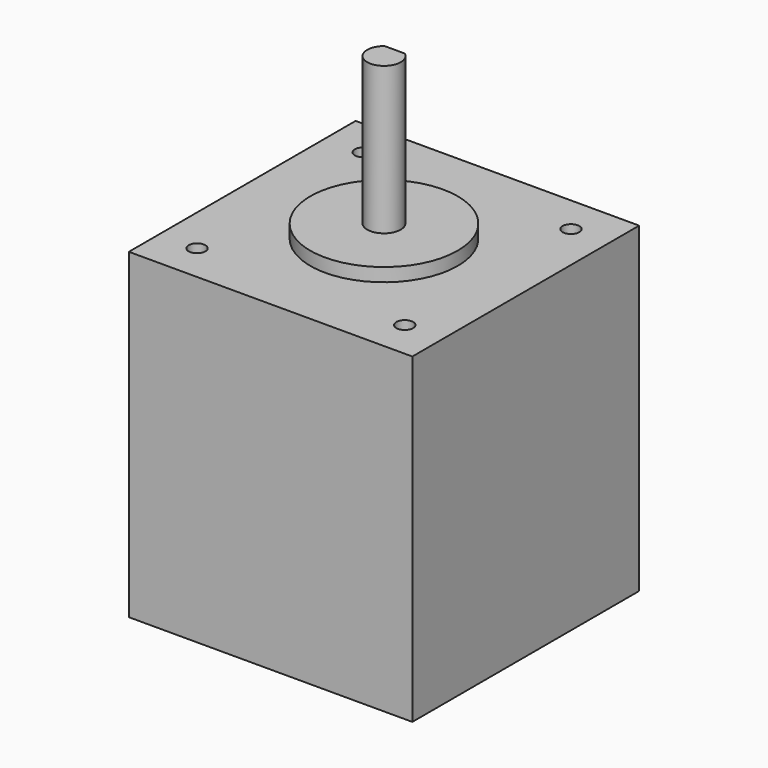
from build123d import *

# Parameters (mm, degrees)
SKETCH_W     = 42.3
SKETCH_H     = 42.3
SKETCH_R     = 1.25
PAD_DEPTH    = 48
SKETCH001_R  = 11
PAD001_DEPTH = 2
SKETCH002_R  = 2.5
PAD002_DEPTH = 22
POCKET_DEPTH = 12


with BuildPart() as part:
    # Sketch → Pad (new body)
    with BuildSketch(Plane.XY):
        with Locations((21.15, 21.15)):
            Rectangle(SKETCH_W, SKETCH_H)
        with Locations((5.65, 5.65)):
            Circle(SKETCH_R, mode=Mode.SUBTRACT)
        with Locations((5.65, 36.65)):
            Circle(SKETCH_R, mode=Mode.SUBTRACT)
        with Locations((36.65, 36.65)):
            Circle(SKETCH_R, mode=Mode.SUBTRACT)
        with Locations((36.65, 5.65)):
            Circle(SKETCH_R, mode=Mode.SUBTRACT)
    extrude(amount=PAD_DEPTH)

    # Sketch001 → Pad001 (new body)
    with BuildSketch(Plane.XY.offset(48)):
        with Locations((21.15, 21.15)):
            Circle(SKETCH001_R)
    extrude(amount=PAD001_DEPTH)

    # Sketch002 → Pad002 (new body)
    with BuildSketch(Plane.XY.offset(50)):
        with Locations((21.15, 21.15)):
            Circle(SKETCH002_R)
    extrude(amount=PAD002_DEPTH)

    # Sketch003 → Pocket (cut)
    with BuildSketch(Plane.XY.offset(72)):
        Polygon((21.15, 23.15), (23.316938, 23.15), (23.316938, 24.833685), (17.274462, 24.833685), (17.274462, 23.15), align=None)
    extrude(amount=-POCKET_DEPTH, mode=Mode.SUBTRACT)


solid = part.part
